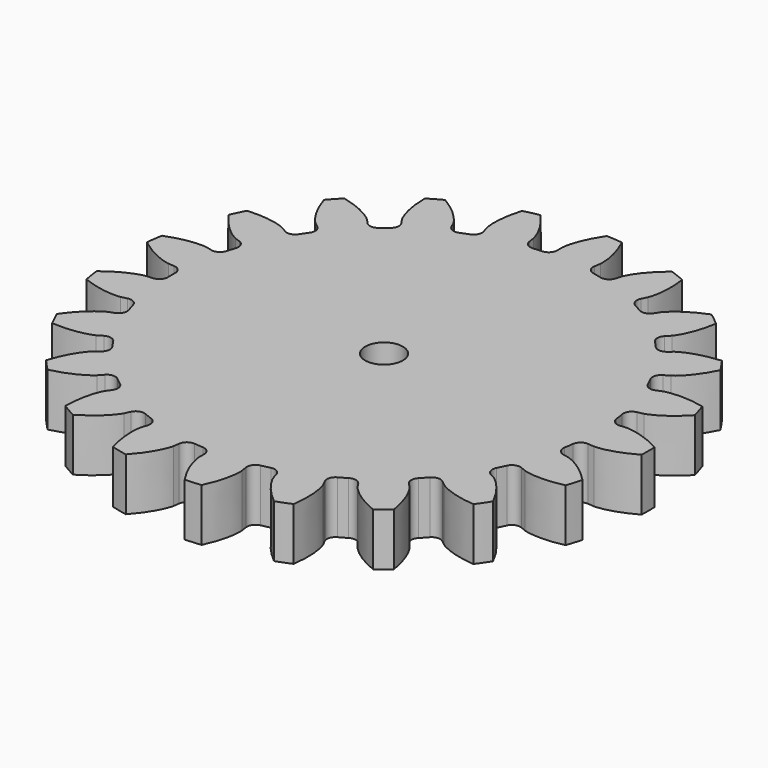
from build123d import *

# Parameters (mm, degrees)
CYLINDER001_R     = 2.5
CYLINDER001_DEPTH = 30
PAD_DEPTH         = 7


with BuildPart() as hole:
    # Cylinder001 → Cylinder001 (new body)
    with BuildSketch(Plane.XY.offset(-10)):
        Circle(CYLINDER001_R)
    extrude(amount=CYLINDER001_DEPTH)


with BuildPart() as clone_of_gear001:
    # InvoluteGear → Pad (new body)
    with BuildSketch(Plane.XY):
        with BuildLine():
            Line((29.216017, -2.627852), (30.02668, -2.698596))
            add(Edge.make_bspline(
                [(30.02668, -2.698596), (30.269336, -2.702327), (31.240634, -2.684194), (32.940327, -2.265756), (35.058609, -1.065575)],
                knots=[0, 0, 0, 0, 0, 1, 1, 1, 1, 1], degree=4))
            ThreePointArc((35.058609, -1.065575), (35.074799, 0), (35.058609, 1.065575))
            add(Edge.make_bspline(
                [(35.058609, 1.065575), (32.940327, 2.265756), (31.240634, 2.684194), (30.269336, 2.702327), (30.02668, 2.698596)],
                knots=[0, 0, 0, 0, 0, 1, 1, 1, 1, 1], degree=4))
            Line((30.02668, 2.698596), (29.216017, 2.627852))
            ThreePointArc((29.216017, 2.627852), (28.398075, 2.874673), (27.979368, 3.61941))
            ThreePointArc((27.979368, 3.61941), (27.89739, 4.204855), (27.803163, 4.788454))
            ThreePointArc((27.803163, 4.788454), (27.983753, 5.62352), (28.692604, 6.100468))
            Line((28.692604, 6.100468), (29.488104, 6.271815))
            add(Edge.make_bspline(
                [(29.488104, 6.271815), (29.72108, 6.339774), (30.64388, 6.643396), (32.144724, 7.544237), (33.815137, 9.315472)],
                knots=[0, 0, 0, 0, 0, 1, 1, 1, 1, 1], degree=4))
            ThreePointArc((33.815137, 9.315472), (33.516524, 10.338478), (33.18697, 11.351941))
            add(Edge.make_bspline(
                [(33.18697, 11.351941), (30.809038, 11.874427), (29.06152, 11.773281), (28.12803, 11.504313), (27.897254, 11.429224)],
                knots=[0, 0, 0, 0, 0, 1, 1, 1, 1, 1], degree=4))
            Line((27.897254, 11.429224), (27.143458, 11.122676))
            ThreePointArc((27.143458, 11.122676), (26.289104, 11.117439), (25.669483, 11.705673))
            ThreePointArc((25.669483, 11.705673), (25.418584, 12.240945), (25.156525, 12.770842))
            ThreePointArc((25.156525, 12.770842), (25.082952, 13.622039), (25.619728, 14.286735))
            Line((25.619728, 14.286735), (26.32938, 14.684947))
            add(Edge.make_bspline(
                [(26.32938, 14.684947), (26.531974, 14.818557), (27.324283, 15.380691), (28.492921, 16.683892), (29.567042, 18.868799)],
                knots=[0, 0, 0, 0, 0, 1, 1, 1, 1, 1], degree=4))
            ThreePointArc((29.567042, 18.868799), (28.980159, 19.758338), (28.366523, 20.629637))
            add(Edge.make_bspline(
                [(28.366523, 20.629637), (25.94023, 20.428003), (24.300163, 19.816261), (23.487425, 19.284092), (23.289034, 19.144315)],
                knots=[0, 0, 0, 0, 0, 1, 1, 1, 1, 1], degree=4))
            Line((23.289034, 19.144315), (22.659084, 18.629202))
            ThreePointArc((22.659084, 18.629202), (21.84423, 18.372372), (21.078752, 18.751836))
            ThreePointArc((21.078752, 18.751836), (20.681226, 19.189373), (20.274619, 19.618485))
            ThreePointArc((20.274619, 19.618485), (19.95342, 20.41018), (20.270426, 21.203563))
            Line((20.270426, 21.203563), (20.831176, 21.793257))
            add(Edge.make_bspline(
                [(20.831176, 21.793257), (20.985387, 21.980647), (21.576804, 22.751344), (22.309397, 24.341109), (22.691785, 26.745549)],
                knots=[0, 0, 0, 0, 0, 1, 1, 1, 1, 1], degree=4))
            ThreePointArc((22.691785, 26.745549), (21.868779, 27.422582), (21.025585, 28.074299))
            add(Edge.make_bspline(
                [(21.025585, 28.074299), (18.766519, 27.166461), (17.37963, 26.098479), (16.759858, 25.350393), (16.611482, 25.15835)],
                knots=[0, 0, 0, 0, 0, 1, 1, 1, 1, 1], degree=4))
            Line((16.611482, 25.15835), (16.161351, 24.480441))
            ThreePointArc((16.161351, 24.480441), (15.4584, 23.994839), (14.615082, 24.131816))
            ThreePointArc((14.615082, 24.131816), (14.10625, 24.432742), (13.591225, 24.72294))
            ThreePointArc((13.591225, 24.72294), (13.05094, 25.384787), (13.120008, 26.236361))
            Line((13.120008, 26.236361), (13.48203, 26.96514))
            add(Edge.make_bspline(
                [(13.48203, 26.96514), (13.574155, 27.18966), (13.912131, 28.10044), (14.143586, 29.835512), (13.800264, 32.245841)],
                knots=[0, 0, 0, 0, 0, 1, 1, 1, 1, 1], degree=4))
            ThreePointArc((13.800264, 32.245841), (12.814263, 32.65021), (11.816433, 33.024437))
            add(Edge.make_bspline(
                [(11.816433, 33.024437), (9.92532, 31.49106), (8.91484, 30.061732), (8.543105, 29.164202), (8.457926, 28.936956)],
                knots=[0, 0, 0, 0, 0, 1, 1, 1, 1, 1], degree=4))
            Line((8.457926, 28.936956), (8.227611, 28.156485))
            ThreePointArc((8.227611, 28.156485), (7.699024, 27.485259), (6.852797, 27.367578))
            ThreePointArc((6.852797, 27.367578), (6.277872, 27.505154), (5.70019, 27.630653))
            ThreePointArc((5.70019, 27.630653), (4.988826, 28.103844), (4.80382, 28.937943))
            Line((4.80382, 28.937943), (4.934946, 29.741053))
            add(Edge.make_bspline(
                [(4.934946, 29.741053), (4.956801, 29.982752), (5.011304, 30.952689), (4.721054, 32.678899), (3.682528, 34.880948)],
                knots=[0, 0, 0, 0, 0, 1, 1, 1, 1, 1], degree=4))
            ThreePointArc((3.682528, 34.880948), (2.621143, 34.976723), (1.557338, 35.040209))
            add(Edge.make_bspline(
                [(1.557338, 35.040209), (0.202213, 33.01754), (-0.342073, 31.353869), (-0.43274, 30.386642), (-0.447153, 30.144385)],
                knots=[0, 0, 0, 0, 0, 1, 1, 1, 1, 1], degree=4))
            Line((-0.447153, 30.144385), (-0.437188, 29.330703))
            ThreePointArc((-0.437188, 29.330703), (-0.744444, 28.533493), (-1.518389, 28.171611))
            ThreePointArc((-1.518389, 28.171611), (-2.108323, 28.133612), (-2.697331, 28.083261))
            ThreePointArc((-2.697331, 28.083261), (-3.516567, 28.325751), (-3.939209, 29.068262))
            Line((-3.939209, 29.068262), (-4.050629, 29.874342))
            add(Edge.make_bspline(
                [(-4.050629, 29.874342), (-4.100987, 30.111745), (-4.3348, 31.054656), (-5.120964, 32.618623), (-6.762416, 34.416729)],
                knots=[0, 0, 0, 0, 0, 1, 1, 1, 1, 1], degree=4))
            ThreePointArc((-6.762416, 34.416729), (-7.804877, 34.195401), (-8.840133, 33.942504))
            add(Edge.make_bspline(
                [(-8.840133, 33.942504), (-9.538861, 31.610267), (-9.56859, 29.860077), (-9.370135, 28.909097), (-9.312501, 28.673354)],
                knots=[0, 0, 0, 0, 0, 1, 1, 1, 1, 1], degree=4))
            Line((-9.312501, 28.673354), (-9.063142, 27.898758))
            ThreePointArc((-9.063142, 27.898758), (-9.121765, 27.046401), (-9.754659, 26.472472))
            ThreePointArc((-9.754659, 26.472472), (-10.307184, 26.262276), (-10.855183, 26.040548))
            ThreePointArc((-10.855183, 26.040548), (-11.709498, 26.030791), (-12.332222, 26.615739))
            Line((-12.332222, 26.615739), (-12.676288, 27.353165))
            add(Edge.make_bspline(
                [(-12.676288, 27.353165), (-12.794385, 27.565178), (-13.295737, 28.39728), (-14.507962, 29.660038), (-16.60649, 30.894434)],
                knots=[0, 0, 0, 0, 0, 1, 1, 1, 1, 1], degree=4))
            ThreePointArc((-16.60649, 30.894434), (-17.537399, 30.375667), (-18.452119, 29.828859))
            add(Edge.make_bspline(
                [(-18.452119, 29.828859), (-18.432366, 27.394282), (-17.944897, 25.713086), (-17.474952, 24.862851), (-17.350392, 24.65457)],
                knots=[0, 0, 0, 0, 0, 1, 1, 1, 1, 1], degree=4))
            Line((-17.350392, 24.65457), (-16.883795, 23.987887))
            ThreePointArc((-16.883795, 23.987887), (-16.688578, 23.156118), (-17.124185, 22.421138))
            ThreePointArc((-17.124185, 22.421138), (-17.590206, 22.057421), (-18.048504, 21.684019))
            ThreePointArc((-18.048504, 21.684019), (-18.861988, 21.422881), (-19.629463, 21.79829))
            Line((-19.629463, 21.79829), (-20.175603, 22.401539))
            add(Edge.make_bspline(
                [(-20.175603, 22.401539), (-20.350945, 22.569323), (-21.07529, 23.216681), (-22.605863, 24.066029), (-24.975004, 24.627032)],
                knots=[0, 0, 0, 0, 0, 1, 1, 1, 1, 1], degree=4))
            ThreePointArc((-24.975004, 24.627032), (-25.711647, 23.856922), (-26.424554, 23.064789))
            add(Edge.make_bspline(
                [(-26.424554, 23.064789), (-25.688074, 20.744196), (-24.726721, 19.281374), (-24.027043, 18.607432), (-23.846625, 18.445118)],
                knots=[0, 0, 0, 0, 0, 1, 1, 1, 1, 1], degree=4))
            Line((-23.846625, 18.445118), (-23.204249, 17.945586))
            ThreePointArc((-23.204249, 17.945586), (-22.772537, 17.208312), (-22.972152, 16.377588))
            ThreePointArc((-22.972152, 16.377588), (-23.310261, 15.892667), (-23.638136, 15.400768))
            ThreePointArc((-23.638136, 15.400768), (-24.338508, 14.911454), (-25.182539, 15.043968))
            Line((-25.182539, 15.043968), (-25.882227, 15.459439))
            add(Edge.make_bspline(
                [(-25.882227, 15.459439), (-26.099234, 15.568085), (-26.982211, 15.973178), (-28.695135, 16.333648), (-31.12438, 16.17141)],
                knots=[0, 0, 0, 0, 0, 1, 1, 1, 1, 1], degree=4))
            ThreePointArc((-31.12438, 16.17141), (-31.601302, 15.218385), (-32.049051, 14.251311))
            add(Edge.make_bspline(
                [(-32.049051, 14.251311), (-30.661284, 12.250897), (-29.311467, 11.136428), (-28.444225, 10.698661), (-28.22398, 10.596737)],
                knots=[0, 0, 0, 0, 0, 1, 1, 1, 1, 1], degree=4))
            Line((-28.22398, 10.596737), (-27.462904, 10.308742))
            ThreePointArc((-27.462904, 10.308742), (-26.833056, 9.731472), (-26.778943, 8.878817))
            ThreePointArc((-26.778943, 8.878817), (-26.959098, 8.31578), (-27.127416, 7.749093))
            ThreePointArc((-27.127416, 7.749093), (-27.652445, 7.075079), (-28.498037, 6.952923))
            Line((-28.498037, 6.952923), (-29.289102, 7.143699))
            add(Edge.make_bspline(
                [(-29.289102, 7.143699), (-29.528492, 7.183554), (-30.491644, 7.310388), (-32.234718, 7.14995), (-34.508218, 6.278888)],
                knots=[0, 0, 0, 0, 0, 1, 1, 1, 1, 1], degree=4))
            ThreePointArc((-34.508218, 6.278888), (-34.683042, 5.227628), (-34.825849, 4.171541))
            add(Edge.make_bspline(
                [(-34.825849, 4.171541), (-32.910105, 2.669052), (-31.29176, 2.001961), (-30.334014, 1.839267), (-30.093511, 1.80679)],
                knots=[0, 0, 0, 0, 0, 1, 1, 1, 1, 1], degree=4))
            Line((-30.093511, 1.80679), (-29.281359, 1.75592))
            ThreePointArc((-29.281359, 1.75592), (-28.50934, 1.389948), (-28.206307, 0.591124))
            ThreePointArc((-28.206307, 0.591124), (-28.2125, 0), (-28.206307, -0.591124))
            ThreePointArc((-28.206307, -0.591124), (-28.50934, -1.389948), (-29.281359, -1.75592))
            Line((-29.281359, -1.75592), (-30.093511, -1.80679))
            add(Edge.make_bspline(
                [(-30.093511, -1.80679), (-30.334014, -1.839267), (-31.29176, -2.001961), (-32.910105, -2.669052), (-34.825849, -4.171541)],
                knots=[0, 0, 0, 0, 0, 1, 1, 1, 1, 1], degree=4))
            ThreePointArc((-34.825849, -4.171541), (-34.683042, -5.227628), (-34.508218, -6.278888))
            add(Edge.make_bspline(
                [(-34.508218, -6.278888), (-32.234718, -7.14995), (-30.491644, -7.310388), (-29.528492, -7.183554), (-29.289102, -7.143699)],
                knots=[0, 0, 0, 0, 0, 1, 1, 1, 1, 1], degree=4))
            Line((-29.289102, -7.143699), (-28.498037, -6.952923))
            ThreePointArc((-28.498037, -6.952923), (-27.652445, -7.075079), (-27.127416, -7.749093))
            ThreePointArc((-27.127416, -7.749093), (-26.959098, -8.31578), (-26.778943, -8.878817))
            ThreePointArc((-26.778943, -8.878817), (-26.833056, -9.731472), (-27.462904, -10.308742))
            Line((-27.462904, -10.308742), (-28.22398, -10.596737))
            add(Edge.make_bspline(
                [(-28.22398, -10.596737), (-28.444225, -10.698661), (-29.311467, -11.136428), (-30.661284, -12.250897), (-32.049051, -14.251311)],
                knots=[0, 0, 0, 0, 0, 1, 1, 1, 1, 1], degree=4))
            ThreePointArc((-32.049051, -14.251311), (-31.601302, -15.218385), (-31.12438, -16.17141))
            add(Edge.make_bspline(
                [(-31.12438, -16.17141), (-28.695135, -16.333648), (-26.982211, -15.973178), (-26.099234, -15.568085), (-25.882227, -15.459439)],
                knots=[0, 0, 0, 0, 0, 1, 1, 1, 1, 1], degree=4))
            Line((-25.882227, -15.459439), (-25.182539, -15.043968))
            ThreePointArc((-25.182539, -15.043968), (-24.338508, -14.911454), (-23.638136, -15.400768))
            ThreePointArc((-23.638136, -15.400768), (-23.310261, -15.892667), (-22.972152, -16.377588))
            ThreePointArc((-22.972152, -16.377588), (-22.772537, -17.208312), (-23.204249, -17.945586))
            Line((-23.204249, -17.945586), (-23.846625, -18.445118))
            add(Edge.make_bspline(
                [(-23.846625, -18.445118), (-24.027043, -18.607432), (-24.726721, -19.281374), (-25.688074, -20.744196), (-26.424554, -23.064789)],
                knots=[0, 0, 0, 0, 0, 1, 1, 1, 1, 1], degree=4))
            ThreePointArc((-26.424554, -23.064789), (-25.711647, -23.856922), (-24.975004, -24.627032))
            add(Edge.make_bspline(
                [(-24.975004, -24.627032), (-22.605863, -24.066029), (-21.07529, -23.216681), (-20.350945, -22.569323), (-20.175603, -22.401539)],
                knots=[0, 0, 0, 0, 0, 1, 1, 1, 1, 1], degree=4))
            Line((-20.175603, -22.401539), (-19.629463, -21.79829))
            ThreePointArc((-19.629463, -21.79829), (-18.861988, -21.422881), (-18.048504, -21.684019))
            ThreePointArc((-18.048504, -21.684019), (-17.590206, -22.057421), (-17.124185, -22.421138))
            ThreePointArc((-17.124185, -22.421138), (-16.688578, -23.156118), (-16.883795, -23.987887))
            Line((-16.883795, -23.987887), (-17.350392, -24.65457))
            add(Edge.make_bspline(
                [(-17.350392, -24.65457), (-17.474952, -24.862851), (-17.944897, -25.713086), (-18.432366, -27.394282), (-18.452119, -29.828859)],
                knots=[0, 0, 0, 0, 0, 1, 1, 1, 1, 1], degree=4))
            ThreePointArc((-18.452119, -29.828859), (-17.537399, -30.375667), (-16.60649, -30.894434))
            add(Edge.make_bspline(
                [(-16.60649, -30.894434), (-14.507962, -29.660038), (-13.295737, -28.39728), (-12.794385, -27.565178), (-12.676288, -27.353165)],
                knots=[0, 0, 0, 0, 0, 1, 1, 1, 1, 1], degree=4))
            Line((-12.676288, -27.353165), (-12.332222, -26.615739))
            ThreePointArc((-12.332222, -26.615739), (-11.709498, -26.030791), (-10.855183, -26.040548))
            ThreePointArc((-10.855183, -26.040548), (-10.307184, -26.262276), (-9.754659, -26.472472))
            ThreePointArc((-9.754659, -26.472472), (-9.121765, -27.046401), (-9.063142, -27.898758))
            Line((-9.063142, -27.898758), (-9.312501, -28.673354))
            add(Edge.make_bspline(
                [(-9.312501, -28.673354), (-9.370135, -28.909097), (-9.56859, -29.860077), (-9.538861, -31.610267), (-8.840133, -33.942504)],
                knots=[0, 0, 0, 0, 0, 1, 1, 1, 1, 1], degree=4))
            ThreePointArc((-8.840133, -33.942504), (-7.804877, -34.195401), (-6.762416, -34.416729))
            add(Edge.make_bspline(
                [(-6.762416, -34.416729), (-5.120964, -32.618623), (-4.3348, -31.054656), (-4.100987, -30.111745), (-4.050629, -29.874342)],
                knots=[0, 0, 0, 0, 0, 1, 1, 1, 1, 1], degree=4))
            Line((-4.050629, -29.874342), (-3.939209, -29.068262))
            ThreePointArc((-3.939209, -29.068262), (-3.516567, -28.325751), (-2.697331, -28.083261))
            ThreePointArc((-2.697331, -28.083261), (-2.108323, -28.133612), (-1.518389, -28.171611))
            ThreePointArc((-1.518389, -28.171611), (-0.744444, -28.533493), (-0.437188, -29.330703))
            Line((-0.437188, -29.330703), (-0.447153, -30.144385))
            add(Edge.make_bspline(
                [(-0.447153, -30.144385), (-0.43274, -30.386642), (-0.342073, -31.353869), (0.202213, -33.01754), (1.557338, -35.040209)],
                knots=[0, 0, 0, 0, 0, 1, 1, 1, 1, 1], degree=4))
            ThreePointArc((1.557338, -35.040209), (2.621143, -34.976723), (3.682528, -34.880948))
            add(Edge.make_bspline(
                [(3.682528, -34.880948), (4.721054, -32.678899), (5.011304, -30.952689), (4.956801, -29.982752), (4.934946, -29.741053)],
                knots=[0, 0, 0, 0, 0, 1, 1, 1, 1, 1], degree=4))
            Line((4.934946, -29.741053), (4.80382, -28.937943))
            ThreePointArc((4.80382, -28.937943), (4.988826, -28.103844), (5.70019, -27.630653))
            ThreePointArc((5.70019, -27.630653), (6.277872, -27.505154), (6.852797, -27.367578))
            ThreePointArc((6.852797, -27.367578), (7.699024, -27.485259), (8.227611, -28.156485))
            Line((8.227611, -28.156485), (8.457926, -28.936956))
            add(Edge.make_bspline(
                [(8.457926, -28.936956), (8.543105, -29.164202), (8.91484, -30.061732), (9.92532, -31.49106), (11.816433, -33.024437)],
                knots=[0, 0, 0, 0, 0, 1, 1, 1, 1, 1], degree=4))
            ThreePointArc((11.816433, -33.024437), (12.814263, -32.65021), (13.800264, -32.245841))
            add(Edge.make_bspline(
                [(13.800264, -32.245841), (14.143586, -29.835512), (13.912131, -28.10044), (13.574155, -27.18966), (13.48203, -26.96514)],
                knots=[0, 0, 0, 0, 0, 1, 1, 1, 1, 1], degree=4))
            Line((13.48203, -26.96514), (13.120008, -26.236361))
            ThreePointArc((13.120008, -26.236361), (13.05094, -25.384787), (13.591225, -24.72294))
            ThreePointArc((13.591225, -24.72294), (14.10625, -24.432742), (14.615082, -24.131816))
            ThreePointArc((14.615082, -24.131816), (15.4584, -23.994839), (16.161351, -24.480441))
            Line((16.161351, -24.480441), (16.611482, -25.15835))
            add(Edge.make_bspline(
                [(16.611482, -25.15835), (16.759858, -25.350393), (17.37963, -26.098479), (18.766519, -27.166461), (21.025585, -28.074299)],
                knots=[0, 0, 0, 0, 0, 1, 1, 1, 1, 1], degree=4))
            ThreePointArc((21.025585, -28.074299), (21.868779, -27.422582), (22.691785, -26.745549))
            add(Edge.make_bspline(
                [(22.691785, -26.745549), (22.309397, -24.341109), (21.576804, -22.751344), (20.985387, -21.980647), (20.831176, -21.793257)],
                knots=[0, 0, 0, 0, 0, 1, 1, 1, 1, 1], degree=4))
            Line((20.831176, -21.793257), (20.270426, -21.203563))
            ThreePointArc((20.270426, -21.203563), (19.95342, -20.41018), (20.274619, -19.618485))
            ThreePointArc((20.274619, -19.618485), (20.681226, -19.189373), (21.078752, -18.751836))
            ThreePointArc((21.078752, -18.751836), (21.84423, -18.372372), (22.659084, -18.629202))
            Line((22.659084, -18.629202), (23.289034, -19.144315))
            add(Edge.make_bspline(
                [(23.289034, -19.144315), (23.487425, -19.284092), (24.300163, -19.816261), (25.94023, -20.428003), (28.366523, -20.629637)],
                knots=[0, 0, 0, 0, 0, 1, 1, 1, 1, 1], degree=4))
            ThreePointArc((28.366523, -20.629637), (28.980159, -19.758338), (29.567042, -18.868799))
            add(Edge.make_bspline(
                [(29.567042, -18.868799), (28.492921, -16.683892), (27.324283, -15.380691), (26.531974, -14.818557), (26.32938, -14.684947)],
                knots=[0, 0, 0, 0, 0, 1, 1, 1, 1, 1], degree=4))
            Line((26.32938, -14.684947), (25.619728, -14.286735))
            ThreePointArc((25.619728, -14.286735), (25.082952, -13.622039), (25.156525, -12.770842))
            ThreePointArc((25.156525, -12.770842), (25.418584, -12.240945), (25.669483, -11.705673))
            ThreePointArc((25.669483, -11.705673), (26.289104, -11.117439), (27.143458, -11.122676))
            Line((27.143458, -11.122676), (27.897254, -11.429224))
            add(Edge.make_bspline(
                [(27.897254, -11.429224), (28.12803, -11.504313), (29.06152, -11.773281), (30.809038, -11.874427), (33.18697, -11.351941)],
                knots=[0, 0, 0, 0, 0, 1, 1, 1, 1, 1], degree=4))
            ThreePointArc((33.18697, -11.351941), (33.516524, -10.338478), (33.815137, -9.315472))
            add(Edge.make_bspline(
                [(33.815137, -9.315472), (32.144724, -7.544237), (30.64388, -6.643396), (29.72108, -6.339774), (29.488104, -6.271815)],
                knots=[0, 0, 0, 0, 0, 1, 1, 1, 1, 1], degree=4))
            Line((29.488104, -6.271815), (28.692604, -6.100468))
            ThreePointArc((28.692604, -6.100468), (27.983753, -5.62352), (27.803163, -4.788454))
            ThreePointArc((27.803163, -4.788454), (27.89739, -4.204855), (27.979368, -3.61941))
            ThreePointArc((27.979368, -3.61941), (28.398075, -2.874673), (29.216017, -2.627852))
        make_face()
    extrude(amount=PAD_DEPTH)

    # Cut: cut hole
    add(hole.part, mode=Mode.SUBTRACT)


solid = clone_of_gear001.part
